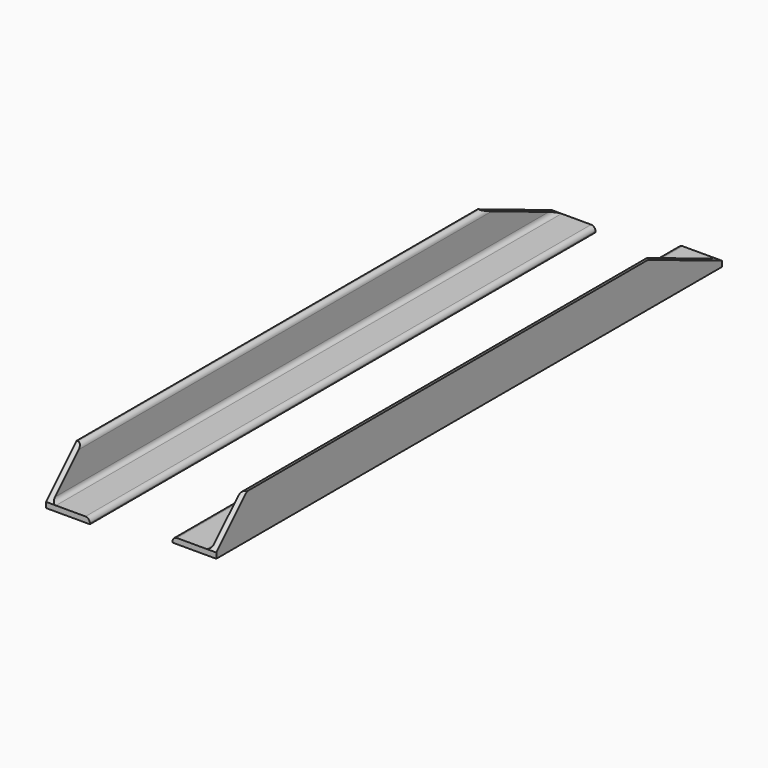
from build123d import *

# Parameters (mm, degrees)
F1_DEPTH = 366.7125
F2_R     = 5.08
F4_DEPTH = 25.4
F6_DEPTH = 25.4


with BuildPart() as f1:
    # F0 (on Front) → F1 (new body, symmetric)
    with BuildSketch(Plane.XZ):
        Polygon((-124.844931, -22.462923), (-74.044931, -22.462923), (-74.044931, -16.112923), (-118.494931, -16.112923), (-118.494931, 28.337077), (-124.844931, 28.337077), align=None)
        Polygon((21.89406, -9.987138), (72.69406, -9.987138), (72.69406, 40.812862), (66.34406, 40.812862), (66.34406, -3.637138), (21.89406, -3.637138), align=None)
    extrude(amount=F1_DEPTH, both=True)

    # F2
    f2_edges = [f1.edges().sort_by_distance(p)[0] for p in [
        (-118.494931, 0, 28.337077),
        (-118.494931, 0, -16.112923),
        (-74.044931, 0, -16.112923),
        (21.89406, 0, -3.637138),
        (66.34406, 0, -3.637138),
        (66.34406, 0, 40.812862),
    ]]
    fillet(f2_edges, radius=F2_R)

    # F3 (on face) → F4 (cut)
    with BuildSketch(Plane(origin=(-124.844931, 0, 0), x_dir=(0, -1, 0), z_dir=(-1, 0, 0))):
        Polygon((-263.608611, 26.594106), (-259.400707, 28.337077), (-366.7125, 28.337077), (-366.7125, -16.112923), align=None)
        Polygon((322.2625, 28.337077), (366.7125, -16.112923), (366.7125, 28.337077), align=None)
    extrude(amount=-F4_DEPTH, mode=Mode.SUBTRACT)

    # F5 (on face) → F6 (cut)
    with BuildSketch(Plane.YZ.offset(72.69406)):
        Polygon((259.400707, 40.812862), (366.7125, -3.637138), (366.7125, 40.812862), align=None)
        Polygon((-366.7125, -3.637138), (-322.2625, 40.812862), (-366.7125, 40.812862), align=None)
    extrude(amount=-F6_DEPTH, mode=Mode.SUBTRACT)


solid = f1.part
